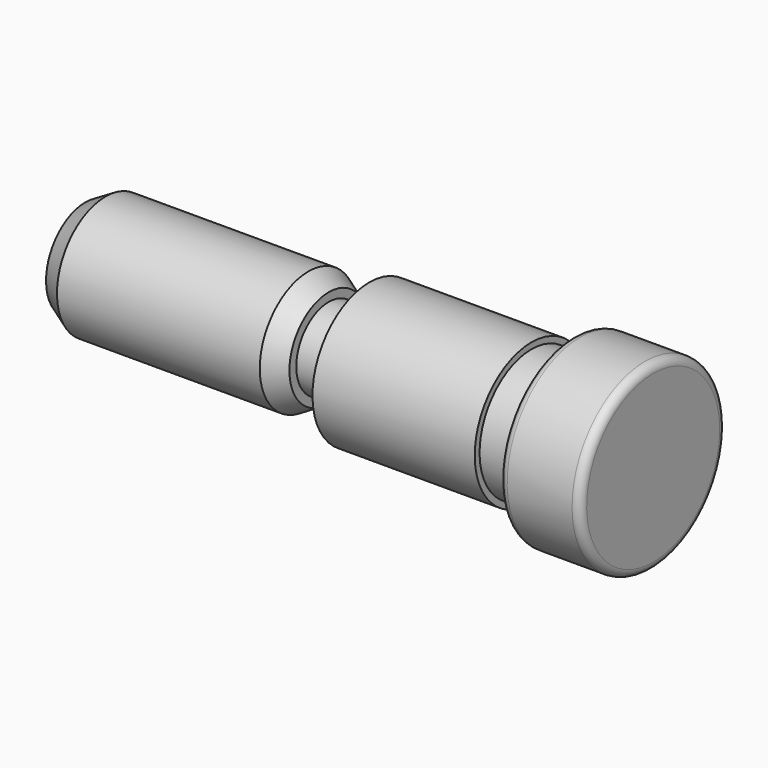
from build123d import *

# Parameters (mm, degrees)
F2_SIZE2 = 2.8867513459
F2_SIZE  = 5
F3_R     = 2


with BuildPart() as f1:
    # F0 (on Front) → F1 (revolve)
    with BuildSketch(Plane.XZ):
        Polygon((-140, 0), (0, 0), (0, 22.5), (-20, 22.5), (-20, 16), (-30, 16), (-30, 17.5), (-70, 17.5), (-70, 10), (-80, 10), (-80, 15), (-140, 15), align=None)
    revolve(axis=Axis((-70, 0, 0), (1, 0, 0)))

    # F2
    f2_edges = [f1.edges().sort_by_distance(p)[0] for p in [
        (-140, 0, -15),
        (-80, 0, -15),
    ]]
    f2_side = f1.faces().sort_by_distance((-110, 0, -15))[0]
    chamfer(f2_edges, length=F2_SIZE, length2=F2_SIZE2, reference=f2_side)

    # F3
    f3_edges = [f1.edges().sort_by_distance(p)[0] for p in [
        (-70, 0, -10),
        (-20, 0, -22.5),
        (0, 0, -22.5),
        (-20, 0, -16),
    ]]
    fillet(f3_edges, radius=F3_R)


solid = f1.part
